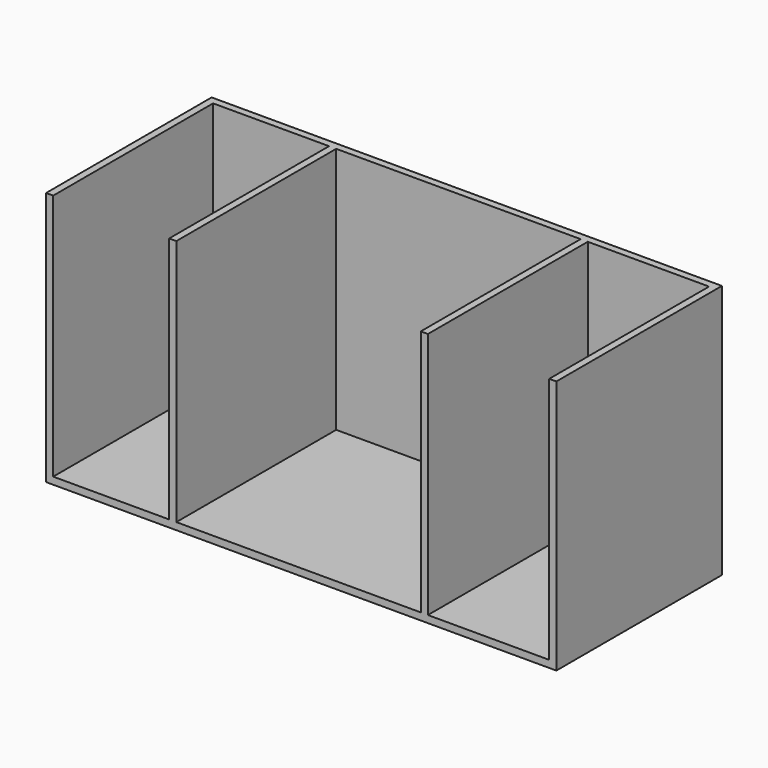
from build123d import *

# Parameters (mm, degrees)
F1_DEPTH = 533.4
F2_W     = 1362.075
F2_H     = 679.45
F3_DEPTH = 19.05
F4_W     = 19.05
F4_H     = 660.4
F5_DEPTH = 533.4
F7_D     = 9.525
F7_DEPTH = 9.525
F7_TIP   = 2.8615986981


with BuildPart() as f1:
    # F0 (on Front) → F1 (new body)
    with BuildSketch(Plane.XZ):
        Polygon((-661.9875, 679.45), (-681.0375, 679.45), (-681.0375, 0), (681.0375, 0), (681.0375, 679.45), (661.9875, 679.45), (661.9875, 19.05), (-661.9875, 19.05), align=None)
    extrude(amount=-F1_DEPTH)

    # F2 (on face) → F3 (join)
    with BuildSketch(Plane(origin=(0, 533.4, 0), x_dir=(-1, 0, 0), z_dir=(0, 1, 0))):
        with Locations((0, 339.725)):
            Rectangle(F2_W, F2_H)
    extrude(amount=F3_DEPTH)

    # F4 (on face) → F5 (join, through all)
    with BuildSketch(Plane.XZ):
        with Locations((-342.9, 349.25)):
            Rectangle(F4_W, F4_H)
        with Locations((328.6125, 349.25)):
            Rectangle(F4_W, F4_H)
    extrude(amount=-F5_DEPTH)

    # F7
    with Locations(Plane(origin=(0, 0, 0), x_dir=(1, 0, 0), z_dir=(0, 0, -1))):
        with Locations((-639.1275, -41.91), (-639.1275, -510.54), (639.1275, -41.91), (639.1275, -510.54)):
            Hole(F7_D / 2, depth=F7_DEPTH)
            with Locations((0, 0, -(F7_DEPTH + F7_TIP / 2))):  # 118° drill point
                Cone(0, F7_D / 2, F7_TIP, mode=Mode.SUBTRACT)


solid = f1.part
